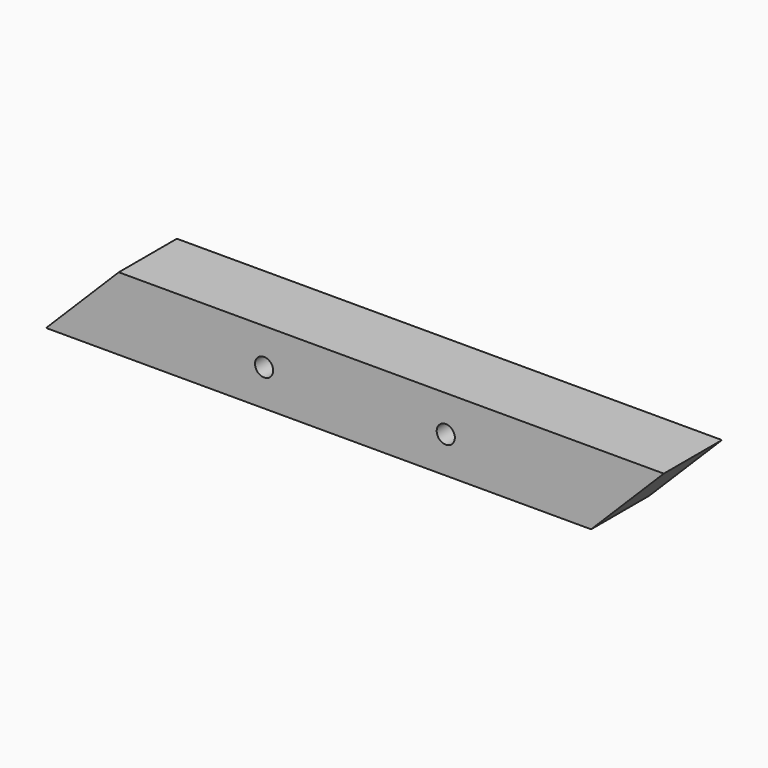
from build123d import *

# Parameters (mm, degrees)
F0_R     = 1.25
F1_DEPTH = 5
F3_D     = 1.5
F3_DEPTH = 5
F3_TIP   = 0.4506454643


with BuildPart() as f1:
    # F0 (on Front) → F1 (new body, symmetric)
    with BuildSketch(Plane.XZ):
        Polygon((38.9079287648, 0.7754686598), (-26.0920712352, 0.7754686598), (-36.0920712352, -9.2245313402), (38.9079287648, -9.2245313402), (48.9079287648, 0.7754686598), align=None)
        with Locations((-6.0920712352, -4.2245313402)):
            Circle(F0_R, mode=Mode.SUBTRACT)
        with Locations((18.9079287648, -4.2245313402)):
            Circle(F0_R, mode=Mode.SUBTRACT)
    extrude(amount=F1_DEPTH, both=True)

    # F3
    with Locations(Plane(origin=(-13.4337699475, 0, 13.4337699475), x_dir=(0.7071067812, 0, 0.7071067812), z_dir=(-0.7071067812, 0, 0.7071067812))):
        with Locations((-21.4370752636, 0)):
            Hole(F3_D / 2, depth=F3_DEPTH)
            with Locations((0, 0, -(F3_DEPTH + F3_TIP / 2))):  # 118° drill point
                Cone(0, F3_D / 2, F3_TIP, mode=Mode.SUBTRACT)


solid = f1.part
